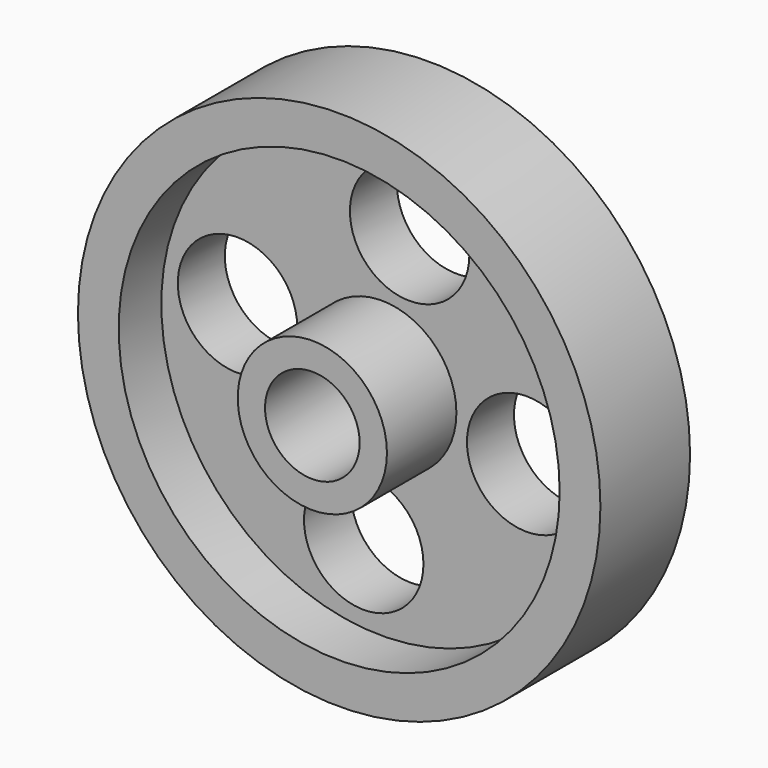
from build123d import *

# Parameters (mm, degrees)
F0_R     = 9.9949
F0_R_2   = 6.3373
F1_DEPTH = 19.5072
F0_R_3   = 29.5402
F0_R_4   = 8.001
F2_DEPTH = 7.874
F0_R_5   = 35.0012
F3_DEPTH = 15.0114


with BuildPart() as f1:
    # F0 (on Front) → F1 (new body)
    with BuildSketch(Plane.XZ):
        Circle(F0_R)
        Circle(F0_R_2, mode=Mode.SUBTRACT)
    extrude(amount=F1_DEPTH)

    # F0 (on Front) → F2 (join)
    with BuildSketch(Plane.XZ):
        Circle(F0_R_3)
        with Locations((-2.421228, -19.275159)):
            Circle(F0_R_4, mode=Mode.SUBTRACT)
        with Locations((19.409321, -2.979115)):
            Circle(F0_R_4, mode=Mode.SUBTRACT)
        with Locations((-19.332217, 3.170335)):
            Circle(F0_R_4, mode=Mode.SUBTRACT)
        Circle(F0_R, mode=Mode.SUBTRACT)
        with Locations((3.728223, 19.158907)):
            Circle(F0_R_4, mode=Mode.SUBTRACT)
    extrude(amount=F2_DEPTH)

    # F0 (on Front) → F3 (join)
    with BuildSketch(Plane.XZ):
        Circle(F0_R_5)
        Circle(F0_R_3, mode=Mode.SUBTRACT)
    extrude(amount=F3_DEPTH)


solid = f1.part
